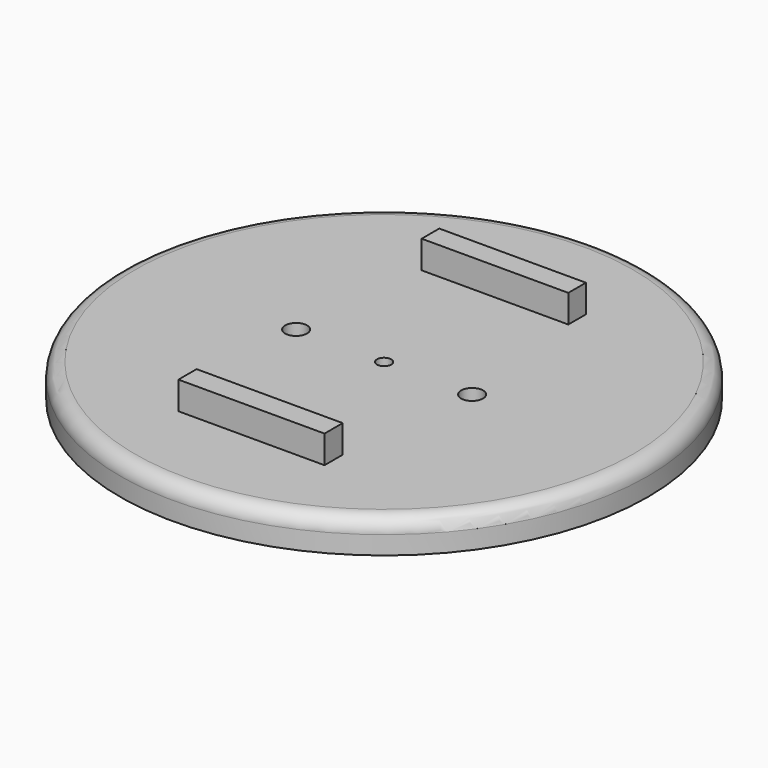
from build123d import *

# Parameters (mm, degrees)
F0_R      = 36
F1_DEPTH  = 4.5
F2_R      = 2
F3_R      = 0.975
F4_DEPTH  = 12.4
F5_R      = 1.5
F6_DEPTH  = 65.8
F8_DEPTH  = 8.3
F10_DEPTH = 8.3


with BuildPart() as f1:
    # F0 (on Top) → F1 (new body)
    with BuildSketch(Plane.XY):
        Circle(F0_R)
    extrude(amount=F1_DEPTH)

    # F2
    f2_edges = [f1.edges().sort_by_distance(p)[0] for p in [
        (-36, 0, 4.5),
    ]]
    fillet(f2_edges, radius=F2_R)

    # F3 (on Top) → F4 (cut)
    with BuildSketch(Plane.XY):
        Circle(F3_R)
    extrude(amount=F4_DEPTH, mode=Mode.SUBTRACT)

    # F5 (on Top) → F6 (cut)
    with BuildSketch(Plane.XY):
        with Locations((-12, 0)):
            Circle(F5_R)
        with Locations((12, 0)):
            Circle(F5_R)
    extrude(amount=F6_DEPTH, mode=Mode.SUBTRACT)


with BuildPart() as f8:
    # F7 (on Top) → F8 (new body)
    with BuildSketch(Plane.XY):
        Polygon((9.924833, -19.465026), (0, -19.465026), (-10, -19.465026), (-10, -22.561671), (9.924833, -22.561671), align=None)
    extrude(amount=F8_DEPTH)


with BuildPart() as f10:
    # F9 (on Top) → F10 (new body)
    with BuildSketch(Plane.XY):
        Polygon((-10.07421, 19), (0, 19), (9.92579, 19), (9.92579, 22), (-10.07421, 22), align=None)
    extrude(amount=F10_DEPTH)


solid = Compound([f1.part, f8.part, f10.part])
